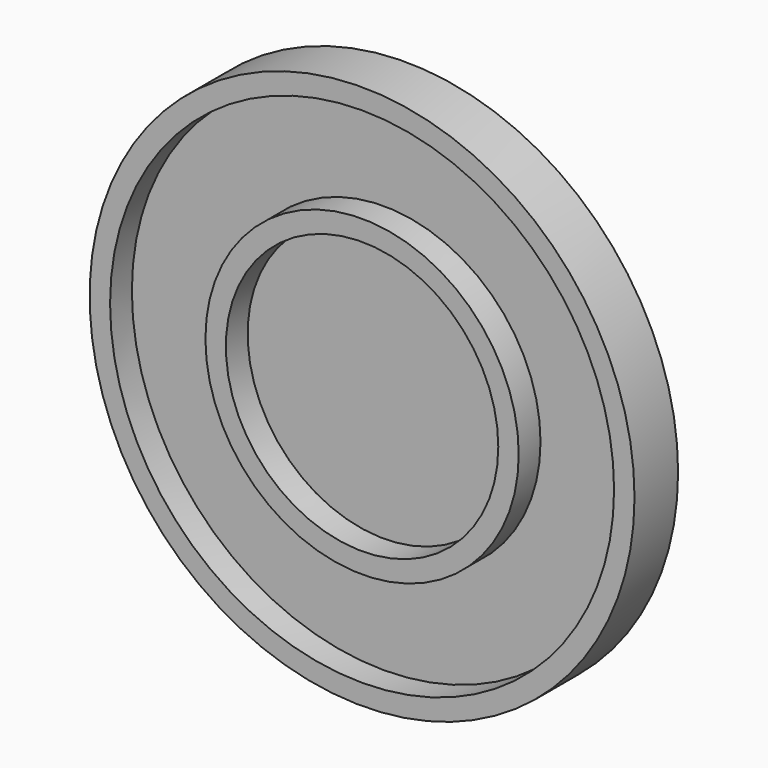
from build123d import *

# Parameters (mm, degrees)
F0_R     = 20
F1_DEPTH = 2
F2_R     = 20
F2_R_2   = 18.5
F3_DEPTH = 2
F4_R     = 11.5
F4_R_2   = 10
F5_DEPTH = 2


with BuildPart() as f1:
    # F0 (on Front) → F1 (new body)
    with BuildSketch(Plane.XZ):
        Circle(F0_R)
    extrude(amount=F1_DEPTH)

    # F2 (on face) → F3 (join)
    with BuildSketch(Plane.XZ.offset(2)):
        Circle(F2_R)
        Circle(F2_R_2, mode=Mode.SUBTRACT)
    extrude(amount=F3_DEPTH)

    # F4 (on face) → F5 (join)
    with BuildSketch(Plane.XZ.offset(2)):
        Circle(F4_R)
        Circle(F4_R_2, mode=Mode.SUBTRACT)
    extrude(amount=F5_DEPTH)


solid = f1.part
